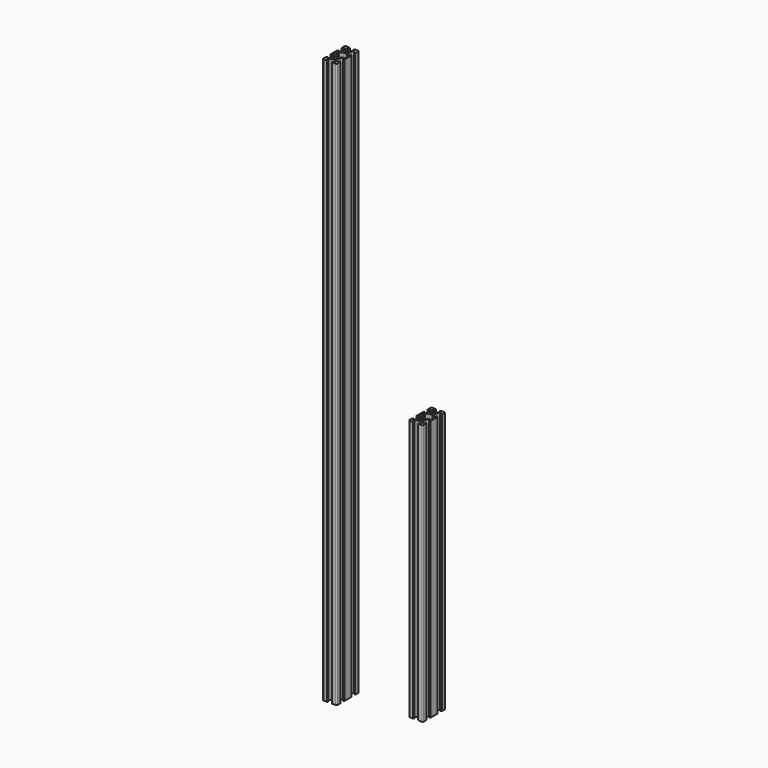
from build123d import *

# Parameters (mm, degrees)
F0_R     = 2.5
F1_DEPTH = 800
F2_R     = 2.5
F3_DEPTH = 370


with BuildPart() as f1:
    # F0 (on Top) → F1 (new body)
    with BuildSketch(Plane.XY):
        with BuildLine():
            Line((-154.894894, -55.535871), (-151.894894, -55.535871))
            ThreePointArc((-151.894894, -55.535871), (-150.834234, -55.096531), (-150.394894, -54.035871))
            Line((-150.394894, -54.035871), (-150.394894, -51.035871))
            Line((-150.394894, -51.035871), (-150.394894, -49.135871))
            Line((-150.394894, -49.135871), (-150.694894, -49.135871))
            ThreePointArc((-150.694894, -49.135871), (-150.836316, -49.077292), (-150.894894, -48.935871))
            Line((-150.894894, -48.935871), (-150.894894, -48.635871))
            Line((-150.894894, -48.635871), (-152.194894, -48.635871))
            Line((-152.194894, -48.635871), (-152.194894, -51.035871))
            Line((-152.194894, -51.035871), (-153.834234, -51.035871))
            Line((-153.834234, -51.035871), (-155.909108, -48.960997))
            ThreePointArc((-155.909108, -48.960997), (-156.342654, -48.31215), (-156.494894, -47.546783))
            Line((-156.494894, -47.546783), (-156.494894, -43.524958))
            ThreePointArc((-156.494894, -43.524958), (-156.342654, -42.759591), (-155.909108, -42.110744))
            Line((-155.909108, -42.110744), (-153.834234, -40.035871))
            Line((-153.834234, -40.035871), (-152.194894, -40.035871))
            Line((-152.194894, -40.035871), (-152.194894, -42.435871))
            Line((-152.194894, -42.435871), (-150.894894, -42.435871))
            Line((-150.894894, -42.435871), (-150.894894, -42.135871))
            ThreePointArc((-150.894894, -42.135871), (-150.836316, -41.994449), (-150.694894, -41.935871))
            Line((-150.694894, -41.935871), (-150.394894, -41.935871))
            Line((-150.394894, -41.935871), (-150.394894, -40.035871))
            Line((-150.394894, -40.035871), (-150.394894, -37.035871))
            Line((-150.394894, -37.035871), (-150.394894, -35.535871))
            Line((-150.394894, -35.535871), (-150.394894, -34.035871))
            Line((-150.394894, -34.035871), (-150.394894, -31.035871))
            Line((-150.394894, -31.035871), (-150.394894, -29.135871))
            Line((-150.394894, -29.135871), (-150.694894, -29.135871))
            ThreePointArc((-150.694894, -29.135871), (-150.836316, -29.077292), (-150.894894, -28.935871))
            Line((-150.894894, -28.935871), (-150.894894, -28.635871))
            Line((-150.894894, -28.635871), (-152.194894, -28.635871))
            Line((-152.194894, -28.635871), (-152.194894, -31.035871))
            Line((-152.194894, -31.035871), (-153.834234, -31.035871))
            Line((-153.834234, -31.035871), (-155.909108, -28.960997))
            ThreePointArc((-155.909108, -28.960997), (-156.342654, -28.31215), (-156.494894, -27.546783))
            Line((-156.494894, -27.546783), (-156.494894, -23.524958))
            ThreePointArc((-156.494894, -23.524958), (-156.342654, -22.759591), (-155.909108, -22.110744))
            Line((-155.909108, -22.110744), (-153.834234, -20.035871))
            Line((-153.834234, -20.035871), (-152.194894, -20.035871))
            Line((-152.194894, -20.035871), (-152.194894, -22.435871))
            Line((-152.194894, -22.435871), (-150.894894, -22.435871))
            Line((-150.894894, -22.435871), (-150.894894, -22.135871))
            ThreePointArc((-150.894894, -22.135871), (-150.836316, -21.994449), (-150.694894, -21.935871))
            Line((-150.694894, -21.935871), (-150.394894, -21.935871))
            Line((-150.394894, -21.935871), (-150.394894, -20.035871))
            Line((-150.394894, -20.035871), (-150.394894, -17.035871))
            ThreePointArc((-150.394894, -17.035871), (-150.834234, -15.975211), (-151.894894, -15.535871))
            Line((-151.894894, -15.535871), (-154.894894, -15.535871))
            Line((-154.894894, -15.535871), (-156.294894, -15.535871))
            Line((-156.294894, -15.535871), (-156.794894, -15.535871))
            Line((-156.794894, -15.535871), (-156.794894, -15.835871))
            ThreePointArc((-156.794894, -15.835871), (-156.853473, -15.977292), (-156.994894, -16.035871))
            Line((-156.994894, -16.035871), (-157.294894, -16.035871))
            Line((-157.294894, -16.035871), (-157.294894, -17.335871))
            Line((-157.294894, -17.335871), (-154.894894, -17.335871))
            Line((-154.894894, -17.335871), (-154.894894, -18.975211))
            Line((-154.894894, -18.975211), (-156.969768, -21.050084))
            ThreePointArc((-156.969768, -21.050084), (-157.618615, -21.48363), (-158.383982, -21.635871))
            Line((-158.383982, -21.635871), (-162.405807, -21.635871))
            ThreePointArc((-162.405807, -21.635871), (-163.171174, -21.48363), (-163.820021, -21.050084))
            Line((-163.820021, -21.050084), (-165.894894, -18.975211))
            Line((-165.894894, -18.975211), (-165.894894, -17.335871))
            Line((-165.894894, -17.335871), (-163.494894, -17.335871))
            Line((-163.494894, -17.335871), (-163.494894, -16.035871))
            Line((-163.494894, -16.035871), (-163.794894, -16.035871))
            ThreePointArc((-163.794894, -16.035871), (-163.936316, -15.977292), (-163.994894, -15.835871))
            Line((-163.994894, -15.835871), (-163.994894, -15.535871))
            Line((-163.994894, -15.535871), (-164.494894, -15.535871))
            Line((-164.494894, -15.535871), (-165.894894, -15.535871))
            Line((-165.894894, -15.535871), (-168.894894, -15.535871))
            ThreePointArc((-168.894894, -15.535871), (-169.955555, -15.975211), (-170.394894, -17.035871))
            Line((-170.394894, -17.035871), (-170.394894, -20.035871))
            Line((-170.394894, -20.035871), (-170.394894, -21.935871))
            Line((-170.394894, -21.935871), (-170.094894, -21.935871))
            ThreePointArc((-170.094894, -21.935871), (-169.953473, -21.994449), (-169.894894, -22.135871))
            Line((-169.894894, -22.135871), (-169.894894, -22.435871))
            Line((-169.894894, -22.435871), (-168.594894, -22.435871))
            Line((-168.594894, -22.435871), (-168.594894, -20.035871))
            Line((-168.594894, -20.035871), (-166.955555, -20.035871))
            Line((-166.955555, -20.035871), (-164.880681, -22.110744))
            ThreePointArc((-164.880681, -22.110744), (-164.447135, -22.759591), (-164.294894, -23.524958))
            Line((-164.294894, -23.524958), (-164.294894, -27.546783))
            ThreePointArc((-164.294894, -27.546783), (-164.447135, -28.31215), (-164.880681, -28.960997))
            Line((-164.880681, -28.960997), (-166.955555, -31.035871))
            Line((-166.955555, -31.035871), (-168.594894, -31.035871))
            Line((-168.594894, -31.035871), (-168.594894, -28.635871))
            Line((-168.594894, -28.635871), (-169.894894, -28.635871))
            Line((-169.894894, -28.635871), (-169.894894, -28.935871))
            ThreePointArc((-169.894894, -28.935871), (-169.953473, -29.077292), (-170.094894, -29.135871))
            Line((-170.094894, -29.135871), (-170.394894, -29.135871))
            Line((-170.394894, -29.135871), (-170.394894, -31.035871))
            Line((-170.394894, -31.035871), (-170.394894, -34.035871))
            Line((-170.394894, -34.035871), (-170.394894, -35.535871))
            Line((-170.394894, -35.535871), (-170.394894, -37.035871))
            Line((-170.394894, -37.035871), (-170.394894, -40.035871))
            Line((-170.394894, -40.035871), (-170.394894, -41.935871))
            Line((-170.394894, -41.935871), (-170.094894, -41.935871))
            ThreePointArc((-170.094894, -41.935871), (-169.953473, -41.994449), (-169.894894, -42.135871))
            Line((-169.894894, -42.135871), (-169.894894, -42.435871))
            Line((-169.894894, -42.435871), (-168.594894, -42.435871))
            Line((-168.594894, -42.435871), (-168.594894, -40.035871))
            Line((-168.594894, -40.035871), (-166.955555, -40.035871))
            Line((-166.955555, -40.035871), (-164.880681, -42.110744))
            ThreePointArc((-164.880681, -42.110744), (-164.447135, -42.759591), (-164.294894, -43.524958))
            Line((-164.294894, -43.524958), (-164.294894, -47.546783))
            ThreePointArc((-164.294894, -47.546783), (-164.447135, -48.31215), (-164.880681, -48.960997))
            Line((-164.880681, -48.960997), (-166.955555, -51.035871))
            Line((-166.955555, -51.035871), (-168.594894, -51.035871))
            Line((-168.594894, -51.035871), (-168.594894, -48.635871))
            Line((-168.594894, -48.635871), (-169.894894, -48.635871))
            Line((-169.894894, -48.635871), (-169.894894, -48.935871))
            ThreePointArc((-169.894894, -48.935871), (-169.953473, -49.077292), (-170.094894, -49.135871))
            Line((-170.094894, -49.135871), (-170.394894, -49.135871))
            Line((-170.394894, -49.135871), (-170.394894, -51.035871))
            Line((-170.394894, -51.035871), (-170.394894, -54.035871))
            ThreePointArc((-170.394894, -54.035871), (-169.955555, -55.096531), (-168.894894, -55.535871))
            Line((-168.894894, -55.535871), (-165.894894, -55.535871))
            Line((-165.894894, -55.535871), (-164.494894, -55.535871))
            Line((-164.494894, -55.535871), (-163.994894, -55.535871))
            Line((-163.994894, -55.535871), (-163.994894, -55.235871))
            ThreePointArc((-163.994894, -55.235871), (-163.936316, -55.094449), (-163.794894, -55.035871))
            Line((-163.794894, -55.035871), (-163.494894, -55.035871))
            Line((-163.494894, -55.035871), (-163.494894, -53.735871))
            Line((-163.494894, -53.735871), (-165.894894, -53.735871))
            Line((-165.894894, -53.735871), (-165.894894, -52.096531))
            Line((-165.894894, -52.096531), (-163.820021, -50.021657))
            ThreePointArc((-163.820021, -50.021657), (-163.171174, -49.588112), (-162.405807, -49.435871))
            Line((-162.405807, -49.435871), (-158.383982, -49.435871))
            ThreePointArc((-158.383982, -49.435871), (-157.618615, -49.588112), (-156.969768, -50.021657))
            Line((-156.969768, -50.021657), (-154.894894, -52.096531))
            Line((-154.894894, -52.096531), (-154.894894, -53.735871))
            Line((-154.894894, -53.735871), (-157.294894, -53.735871))
            Line((-157.294894, -53.735871), (-157.294894, -55.035871))
            Line((-157.294894, -55.035871), (-156.994894, -55.035871))
            ThreePointArc((-156.994894, -55.035871), (-156.853473, -55.094449), (-156.794894, -55.235871))
            Line((-156.794894, -55.235871), (-156.794894, -55.535871))
            Line((-156.794894, -55.535871), (-156.294894, -55.535871))
            Line((-156.294894, -55.535871), (-154.894894, -55.535871))
        make_face()
        with Locations((-160.394894, -45.535871)):
            Circle(F0_R, mode=Mode.SUBTRACT)
        with BuildLine():
            ThreePointArc((-156.969768, -41.050084), (-157.618615, -41.48363), (-158.383982, -41.635871))
            Line((-158.383982, -41.635871), (-162.405807, -41.635871))
            ThreePointArc((-162.405807, -41.635871), (-163.171174, -41.48363), (-163.820021, -41.050084))
            Line((-163.820021, -41.050084), (-165.894894, -38.975211))
            Line((-165.894894, -38.975211), (-168.594894, -38.975211))
            Line((-168.594894, -38.975211), (-168.594894, -35.535871))
            Line((-168.594894, -35.535871), (-168.594894, -32.096531))
            Line((-168.594894, -32.096531), (-165.894894, -32.096531))
            Line((-165.894894, -32.096531), (-163.820021, -30.021657))
            ThreePointArc((-163.820021, -30.021657), (-163.171174, -29.588112), (-162.405807, -29.435871))
            Line((-162.405807, -29.435871), (-158.383982, -29.435871))
            ThreePointArc((-158.383982, -29.435871), (-157.618615, -29.588112), (-156.969768, -30.021657))
            Line((-156.969768, -30.021657), (-154.894894, -32.096531))
            Line((-154.894894, -32.096531), (-152.194894, -32.096531))
            Line((-152.194894, -32.096531), (-152.194894, -35.535871))
            Line((-152.194894, -35.535871), (-152.194894, -38.975211))
            Line((-152.194894, -38.975211), (-154.894894, -38.975211))
            Line((-154.894894, -38.975211), (-156.969768, -41.050084))
        make_face(mode=Mode.SUBTRACT)
        with Locations((-160.394894, -25.535871)):
            Circle(F0_R, mode=Mode.SUBTRACT)
    extrude(amount=F1_DEPTH)


with BuildPart() as f3:
    # F2 (on Top) → F3 (new body)
    with BuildSketch(Plane.XY):
        with BuildLine():
            Line((-55.472606, -27.321543), (-52.472606, -27.321543))
            ThreePointArc((-52.472606, -27.321543), (-51.411946, -26.882203), (-50.972606, -25.821543))
            Line((-50.972606, -25.821543), (-50.972606, -22.821543))
            Line((-50.972606, -22.821543), (-50.972606, -20.921543))
            Line((-50.972606, -20.921543), (-51.272606, -20.921543))
            ThreePointArc((-51.272606, -20.921543), (-51.414028, -20.862964), (-51.472606, -20.721543))
            Line((-51.472606, -20.721543), (-51.472606, -20.421543))
            Line((-51.472606, -20.421543), (-52.772606, -20.421543))
            Line((-52.772606, -20.421543), (-52.772606, -22.821543))
            Line((-52.772606, -22.821543), (-54.411946, -22.821543))
            Line((-54.411946, -22.821543), (-56.48682, -20.746669))
            ThreePointArc((-56.48682, -20.746669), (-56.920365, -20.097823), (-57.072606, -19.332456))
            Line((-57.072606, -19.332456), (-57.072606, -15.31063))
            ThreePointArc((-57.072606, -15.31063), (-56.920365, -14.545263), (-56.48682, -13.896417))
            Line((-56.48682, -13.896417), (-54.411946, -11.821543))
            Line((-54.411946, -11.821543), (-52.772606, -11.821543))
            Line((-52.772606, -11.821543), (-52.772606, -14.221543))
            Line((-52.772606, -14.221543), (-51.472606, -14.221543))
            Line((-51.472606, -14.221543), (-51.472606, -13.921543))
            ThreePointArc((-51.472606, -13.921543), (-51.414028, -13.780122), (-51.272606, -13.721543))
            Line((-51.272606, -13.721543), (-50.972606, -13.721543))
            Line((-50.972606, -13.721543), (-50.972606, -11.821543))
            Line((-50.972606, -11.821543), (-50.972606, -8.821543))
            Line((-50.972606, -8.821543), (-50.972606, -7.321543))
            Line((-50.972606, -7.321543), (-50.972606, -5.821543))
            Line((-50.972606, -5.821543), (-50.972606, -2.821543))
            Line((-50.972606, -2.821543), (-50.972606, -0.921543))
            Line((-50.972606, -0.921543), (-51.272606, -0.921543))
            ThreePointArc((-51.272606, -0.921543), (-51.414028, -0.862964), (-51.472606, -0.721543))
            Line((-51.472606, -0.721543), (-51.472606, -0.421543))
            Line((-51.472606, -0.421543), (-52.772606, -0.421543))
            Line((-52.772606, -0.421543), (-52.772606, -2.821543))
            Line((-52.772606, -2.821543), (-54.411946, -2.821543))
            Line((-54.411946, -2.821543), (-56.48682, -0.746669))
            ThreePointArc((-56.48682, -0.746669), (-56.920365, -0.097823), (-57.072606, 0.667544))
            Line((-57.072606, 0.667544), (-57.072606, 4.68937))
            ThreePointArc((-57.072606, 4.68937), (-56.920365, 5.454737), (-56.48682, 6.103583))
            Line((-56.48682, 6.103583), (-54.411946, 8.178457))
            Line((-54.411946, 8.178457), (-52.772606, 8.178457))
            Line((-52.772606, 8.178457), (-52.772606, 5.778457))
            Line((-52.772606, 5.778457), (-51.472606, 5.778457))
            Line((-51.472606, 5.778457), (-51.472606, 6.078457))
            ThreePointArc((-51.472606, 6.078457), (-51.414028, 6.219878), (-51.272606, 6.278457))
            Line((-51.272606, 6.278457), (-50.972606, 6.278457))
            Line((-50.972606, 6.278457), (-50.972606, 8.178457))
            Line((-50.972606, 8.178457), (-50.972606, 11.178457))
            ThreePointArc((-50.972606, 11.178457), (-51.411946, 12.239117), (-52.472606, 12.678457))
            Line((-52.472606, 12.678457), (-55.472606, 12.678457))
            Line((-55.472606, 12.678457), (-56.872606, 12.678457))
            Line((-56.872606, 12.678457), (-57.372606, 12.678457))
            Line((-57.372606, 12.678457), (-57.372606, 12.378457))
            ThreePointArc((-57.372606, 12.378457), (-57.431185, 12.237036), (-57.572606, 12.178457))
            Line((-57.572606, 12.178457), (-57.872606, 12.178457))
            Line((-57.872606, 12.178457), (-57.872606, 10.878457))
            Line((-57.872606, 10.878457), (-55.472606, 10.878457))
            Line((-55.472606, 10.878457), (-55.472606, 9.239117))
            Line((-55.472606, 9.239117), (-57.54748, 7.164243))
            ThreePointArc((-57.54748, 7.164243), (-58.196327, 6.730698), (-58.961694, 6.578457))
            Line((-58.961694, 6.578457), (-62.983519, 6.578457))
            ThreePointArc((-62.983519, 6.578457), (-63.748886, 6.730698), (-64.397733, 7.164243))
            Line((-64.397733, 7.164243), (-66.472606, 9.239117))
            Line((-66.472606, 9.239117), (-66.472606, 10.878457))
            Line((-66.472606, 10.878457), (-64.072606, 10.878457))
            Line((-64.072606, 10.878457), (-64.072606, 12.178457))
            Line((-64.072606, 12.178457), (-64.372606, 12.178457))
            ThreePointArc((-64.372606, 12.178457), (-64.514028, 12.237036), (-64.572606, 12.378457))
            Line((-64.572606, 12.378457), (-64.572606, 12.678457))
            Line((-64.572606, 12.678457), (-65.072606, 12.678457))
            Line((-65.072606, 12.678457), (-66.472606, 12.678457))
            Line((-66.472606, 12.678457), (-69.472606, 12.678457))
            ThreePointArc((-69.472606, 12.678457), (-70.533266, 12.239117), (-70.972606, 11.178457))
            Line((-70.972606, 11.178457), (-70.972606, 8.178457))
            Line((-70.972606, 8.178457), (-70.972606, 6.278457))
            Line((-70.972606, 6.278457), (-70.672606, 6.278457))
            ThreePointArc((-70.672606, 6.278457), (-70.531185, 6.219878), (-70.472606, 6.078457))
            Line((-70.472606, 6.078457), (-70.472606, 5.778457))
            Line((-70.472606, 5.778457), (-69.172606, 5.778457))
            Line((-69.172606, 5.778457), (-69.172606, 8.178457))
            Line((-69.172606, 8.178457), (-67.533266, 8.178457))
            Line((-67.533266, 8.178457), (-65.458393, 6.103583))
            ThreePointArc((-65.458393, 6.103583), (-65.024847, 5.454737), (-64.872606, 4.68937))
            Line((-64.872606, 4.68937), (-64.872606, 0.667544))
            ThreePointArc((-64.872606, 0.667544), (-65.024847, -0.097823), (-65.458393, -0.746669))
            Line((-65.458393, -0.746669), (-67.533266, -2.821543))
            Line((-67.533266, -2.821543), (-69.172606, -2.821543))
            Line((-69.172606, -2.821543), (-69.172606, -0.421543))
            Line((-69.172606, -0.421543), (-70.472606, -0.421543))
            Line((-70.472606, -0.421543), (-70.472606, -0.721543))
            ThreePointArc((-70.472606, -0.721543), (-70.531185, -0.862964), (-70.672606, -0.921543))
            Line((-70.672606, -0.921543), (-70.972606, -0.921543))
            Line((-70.972606, -0.921543), (-70.972606, -2.821543))
            Line((-70.972606, -2.821543), (-70.972606, -5.821543))
            Line((-70.972606, -5.821543), (-70.972606, -7.321543))
            Line((-70.972606, -7.321543), (-70.972606, -8.821543))
            Line((-70.972606, -8.821543), (-70.972606, -11.821543))
            Line((-70.972606, -11.821543), (-70.972606, -13.721543))
            Line((-70.972606, -13.721543), (-70.672606, -13.721543))
            ThreePointArc((-70.672606, -13.721543), (-70.531185, -13.780122), (-70.472606, -13.921543))
            Line((-70.472606, -13.921543), (-70.472606, -14.221543))
            Line((-70.472606, -14.221543), (-69.172606, -14.221543))
            Line((-69.172606, -14.221543), (-69.172606, -11.821543))
            Line((-69.172606, -11.821543), (-67.533266, -11.821543))
            Line((-67.533266, -11.821543), (-65.458393, -13.896417))
            ThreePointArc((-65.458393, -13.896417), (-65.024847, -14.545263), (-64.872606, -15.31063))
            Line((-64.872606, -15.31063), (-64.872606, -19.332456))
            ThreePointArc((-64.872606, -19.332456), (-65.024847, -20.097823), (-65.458393, -20.746669))
            Line((-65.458393, -20.746669), (-67.533266, -22.821543))
            Line((-67.533266, -22.821543), (-69.172606, -22.821543))
            Line((-69.172606, -22.821543), (-69.172606, -20.421543))
            Line((-69.172606, -20.421543), (-70.472606, -20.421543))
            Line((-70.472606, -20.421543), (-70.472606, -20.721543))
            ThreePointArc((-70.472606, -20.721543), (-70.531185, -20.862964), (-70.672606, -20.921543))
            Line((-70.672606, -20.921543), (-70.972606, -20.921543))
            Line((-70.972606, -20.921543), (-70.972606, -22.821543))
            Line((-70.972606, -22.821543), (-70.972606, -25.821543))
            ThreePointArc((-70.972606, -25.821543), (-70.533266, -26.882203), (-69.472606, -27.321543))
            Line((-69.472606, -27.321543), (-66.472606, -27.321543))
            Line((-66.472606, -27.321543), (-65.072606, -27.321543))
            Line((-65.072606, -27.321543), (-64.572606, -27.321543))
            Line((-64.572606, -27.321543), (-64.572606, -27.021543))
            ThreePointArc((-64.572606, -27.021543), (-64.514028, -26.880122), (-64.372606, -26.821543))
            Line((-64.372606, -26.821543), (-64.072606, -26.821543))
            Line((-64.072606, -26.821543), (-64.072606, -25.521543))
            Line((-64.072606, -25.521543), (-66.472606, -25.521543))
            Line((-66.472606, -25.521543), (-66.472606, -23.882203))
            Line((-66.472606, -23.882203), (-64.397733, -21.807329))
            ThreePointArc((-64.397733, -21.807329), (-63.748886, -21.373784), (-62.983519, -21.221543))
            Line((-62.983519, -21.221543), (-58.961694, -21.221543))
            ThreePointArc((-58.961694, -21.221543), (-58.196327, -21.373784), (-57.54748, -21.807329))
            Line((-57.54748, -21.807329), (-55.472606, -23.882203))
            Line((-55.472606, -23.882203), (-55.472606, -25.521543))
            Line((-55.472606, -25.521543), (-57.872606, -25.521543))
            Line((-57.872606, -25.521543), (-57.872606, -26.821543))
            Line((-57.872606, -26.821543), (-57.572606, -26.821543))
            ThreePointArc((-57.572606, -26.821543), (-57.431185, -26.880122), (-57.372606, -27.021543))
            Line((-57.372606, -27.021543), (-57.372606, -27.321543))
            Line((-57.372606, -27.321543), (-56.872606, -27.321543))
            Line((-56.872606, -27.321543), (-55.472606, -27.321543))
        make_face()
        with Locations((-60.972606, -17.321543)):
            Circle(F2_R, mode=Mode.SUBTRACT)
        with BuildLine():
            ThreePointArc((-57.54748, -12.835757), (-58.196327, -13.269302), (-58.961694, -13.421543))
            Line((-58.961694, -13.421543), (-62.983519, -13.421543))
            ThreePointArc((-62.983519, -13.421543), (-63.748886, -13.269302), (-64.397733, -12.835757))
            Line((-64.397733, -12.835757), (-66.472606, -10.760883))
            Line((-66.472606, -10.760883), (-69.172606, -10.760883))
            Line((-69.172606, -10.760883), (-69.172606, -7.321543))
            Line((-69.172606, -7.321543), (-69.172606, -3.882203))
            Line((-69.172606, -3.882203), (-66.472606, -3.882203))
            Line((-66.472606, -3.882203), (-64.397733, -1.807329))
            ThreePointArc((-64.397733, -1.807329), (-63.748886, -1.373784), (-62.983519, -1.221543))
            Line((-62.983519, -1.221543), (-58.961694, -1.221543))
            ThreePointArc((-58.961694, -1.221543), (-58.196327, -1.373784), (-57.54748, -1.807329))
            Line((-57.54748, -1.807329), (-55.472606, -3.882203))
            Line((-55.472606, -3.882203), (-52.772606, -3.882203))
            Line((-52.772606, -3.882203), (-52.772606, -7.321543))
            Line((-52.772606, -7.321543), (-52.772606, -10.760883))
            Line((-52.772606, -10.760883), (-55.472606, -10.760883))
            Line((-55.472606, -10.760883), (-57.54748, -12.835757))
        make_face(mode=Mode.SUBTRACT)
        with Locations((-60.972606, 2.678457)):
            Circle(F2_R, mode=Mode.SUBTRACT)
    extrude(amount=F3_DEPTH)


solid = Compound([f1.part, f3.part])
